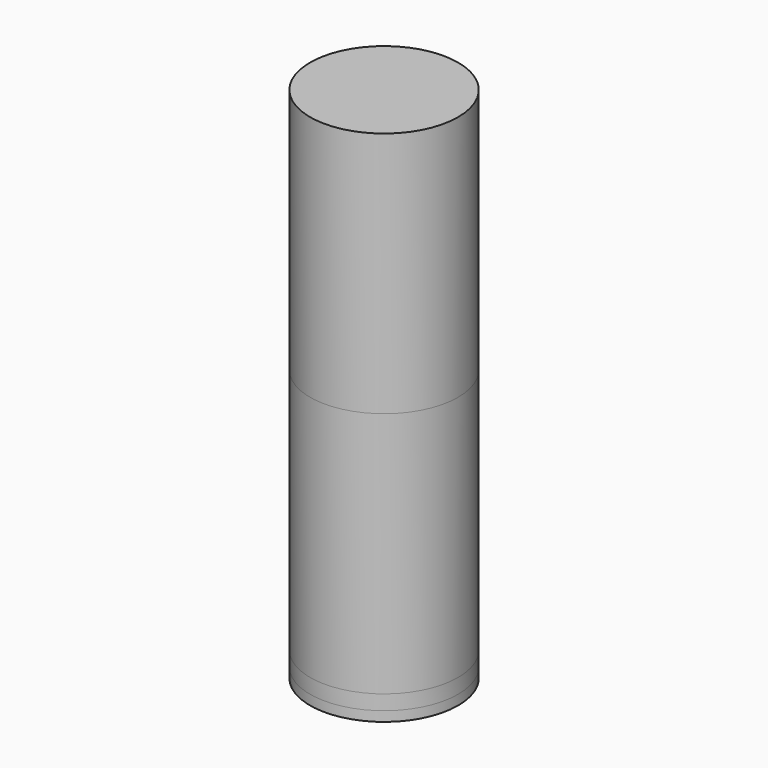
from build123d import *

# Parameters (mm, degrees)
F0_R     = 150
F0_R_2   = 1.5
F1_DEPTH = 20
F2_R     = 150
F3_DEPTH = 30
F4_R     = 150
F5_DEPTH = 500
F6_R     = 150
F7_DEPTH = 500


with BuildPart() as f1:
    # F0 (on Top) → F1 (new body)
    with BuildSketch(Plane.XY):
        Circle(F0_R)
        with Locations((-84.852814, -84.852814)):
            Circle(F0_R_2, mode=Mode.SUBTRACT)
        with Locations((-56.568542, -56.568542)):
            Circle(F0_R_2, mode=Mode.SUBTRACT)
        with Locations((-28.284271, -28.284271)):
            Circle(F0_R_2, mode=Mode.SUBTRACT)
        with Locations((0, -120)):
            Circle(F0_R_2, mode=Mode.SUBTRACT)
        with Locations((0, -80)):
            Circle(F0_R_2, mode=Mode.SUBTRACT)
        with Locations((84.852814, -84.852814)):
            Circle(F0_R_2, mode=Mode.SUBTRACT)
        with Locations((0, -40)):
            Circle(F0_R_2, mode=Mode.SUBTRACT)
        with Locations((56.568542, -56.568542)):
            Circle(F0_R_2, mode=Mode.SUBTRACT)
        with Locations((28.284271, -28.284271)):
            Circle(F0_R_2, mode=Mode.SUBTRACT)
        with Locations((-120, 0)):
            Circle(F0_R_2, mode=Mode.SUBTRACT)
        with Locations((-80, 0)):
            Circle(F0_R_2, mode=Mode.SUBTRACT)
        with Locations((-40, 0)):
            Circle(F0_R_2, mode=Mode.SUBTRACT)
        with Locations((-28.284271, 28.284271)):
            Circle(F0_R_2, mode=Mode.SUBTRACT)
        with Locations((-56.568542, 56.568542)):
            Circle(F0_R_2, mode=Mode.SUBTRACT)
        with Locations((-84.852814, 84.852814)):
            Circle(F0_R_2, mode=Mode.SUBTRACT)
        with Locations((28.284271, 28.284271)):
            Circle(F0_R_2, mode=Mode.SUBTRACT)
        with Locations((40, 0)):
            Circle(F0_R_2, mode=Mode.SUBTRACT)
        with Locations((0, 40)):
            Circle(F0_R_2, mode=Mode.SUBTRACT)
        with Locations((56.568542, 56.568542)):
            Circle(F0_R_2, mode=Mode.SUBTRACT)
        with Locations((80, 0)):
            Circle(F0_R_2, mode=Mode.SUBTRACT)
        with Locations((120, 0)):
            Circle(F0_R_2, mode=Mode.SUBTRACT)
        with Locations((0, 80)):
            Circle(F0_R_2, mode=Mode.SUBTRACT)
        with Locations((0, 120)):
            Circle(F0_R_2, mode=Mode.SUBTRACT)
        with Locations((84.852814, 84.852814)):
            Circle(F0_R_2, mode=Mode.SUBTRACT)
    extrude(amount=F1_DEPTH)


with BuildPart() as f3:
    # F2 (on face) → F3 (new body)
    with BuildSketch(Plane.XY.offset(20)):
        Circle(F2_R)
    extrude(amount=F3_DEPTH)


with BuildPart() as f5:
    # F4 (on face) → F5 (new body)
    with BuildSketch(Plane.XY.offset(50)):
        Circle(F4_R)
    extrude(amount=F5_DEPTH)


with BuildPart() as f7:
    # F6 (on face) → F7 (new body)
    with BuildSketch(Plane.XY.offset(550)):
        Circle(F6_R)
    extrude(amount=F7_DEPTH)


solid = Compound([f1.part, f3.part, f5.part, f7.part])
